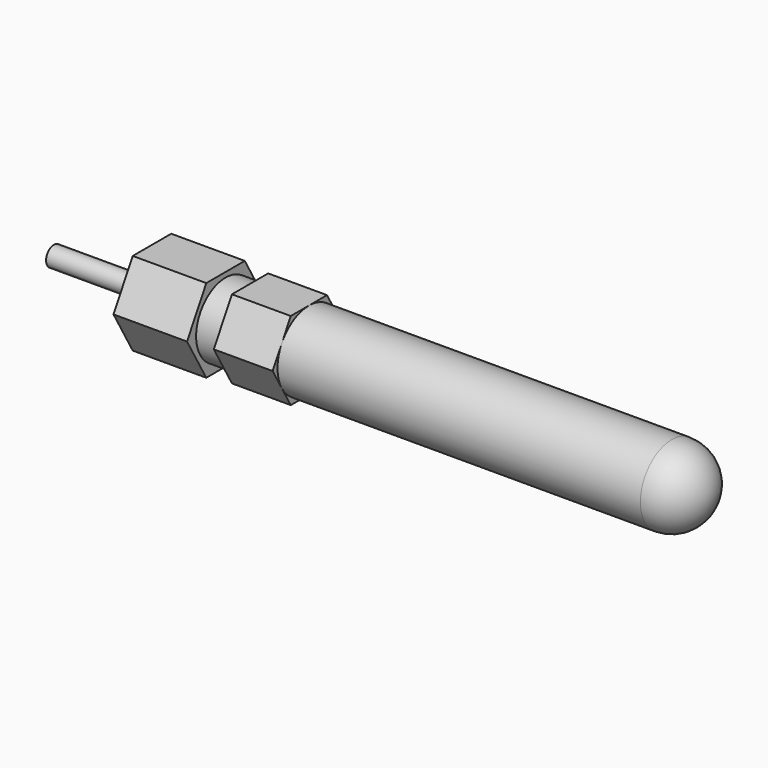
from build123d import *

# Parameters (mm, degrees)
SKETCH_R     = 4
PAD_DEPTH    = 41
FILLET_R     = 4
PAD001_DEPTH = 6
SKETCH002_R  = 3.75
PAD002_DEPTH = 2.5
PAD003_DEPTH = 7.5
SKETCH004_R  = 1
PAD004_DEPTH = 10


with BuildPart() as part:
    # Sketch → Pad (new body)
    with BuildSketch(Plane.YZ):
        Circle(SKETCH_R)
    extrude(amount=PAD_DEPTH)

    # Fillet
    fillet_edges = [part.edges().sort_by_distance(p)[0] for p in [
        (41, -4, 0),
    ]]
    fillet(fillet_edges, radius=FILLET_R)

    # Sketch001 (on Face3 of Fillet) → Pad001 (join)
    with BuildSketch(Plane(origin=(0, 0, 0), x_dir=(0, 1, 0), z_dir=(-1, 0, 0))):
        Polygon((4.618802, 0), (2.309401, 4), (-2.309401, 4), (-4.618802, 0), (-2.309401, -4), (2.309401, -4), align=None)
    extrude(amount=PAD001_DEPTH)

    # Sketch002 (on Face15 of Pad001) → Pad002 (join)
    with BuildSketch(Plane(origin=(-6, 0, 0), x_dir=(0, 1, 0), z_dir=(-1, 0, 0))):
        Circle(SKETCH002_R)
    extrude(amount=PAD002_DEPTH)

    # Sketch003 (on Face17 of Pad002) → Pad003 (join)
    with BuildSketch(Plane(origin=(-8.5, 0, 0), x_dir=(0, 1, 0), z_dir=(-1, 0, 0))):
        Polygon((4.907477, 0), (2.453739, 4.25), (-2.453739, 4.25), (-4.907477, 0), (-2.453739, -4.25), (2.453739, -4.25), align=None)
    extrude(amount=PAD003_DEPTH)

    # Sketch004 (on Face24 of Pad003) → Pad004 (join)
    with BuildSketch(Plane(origin=(-16, 0, 0), x_dir=(0, 1, 0), z_dir=(-1, 0, 0))):
        Circle(SKETCH004_R)
    extrude(amount=PAD004_DEPTH)


solid = part.part
